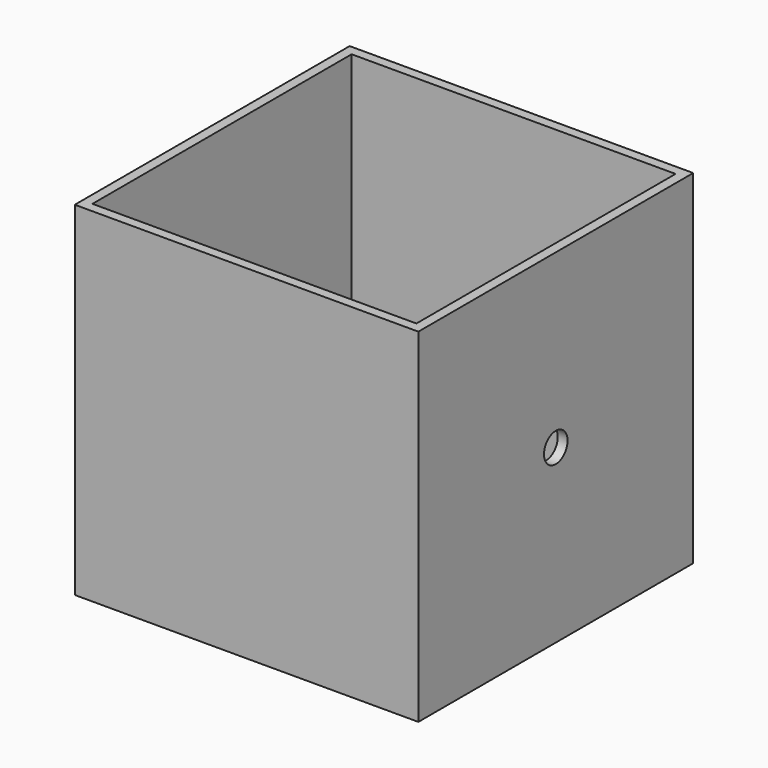
from build123d import *

# Parameters (mm, degrees)
F0_W     = 88.9
F0_H     = 88.9
F1_DEPTH = 88.9
F2_T     = -2.54
F3_R     = 3.81
F4_DEPTH = 25.4


with BuildPart() as f1:
    # F0 (on Front) → F1 (new body)
    with BuildSketch(Plane.XZ):
        Rectangle(F0_W, F0_H)
    extrude(amount=F1_DEPTH)

    # F2
    f2_openings = [f1.faces().sort_by_distance(p)[0] for p in [
        (0, -44.45, 44.45),
    ]]
    offset(amount=F2_T, openings=f2_openings)

    # F3 (on face) → F4 (cut)
    with BuildSketch(Plane.YZ.offset(44.45)):
        with Locations((-44.45, 0)):
            Circle(F3_R)
    extrude(amount=-F4_DEPTH, mode=Mode.SUBTRACT)


solid = f1.part
